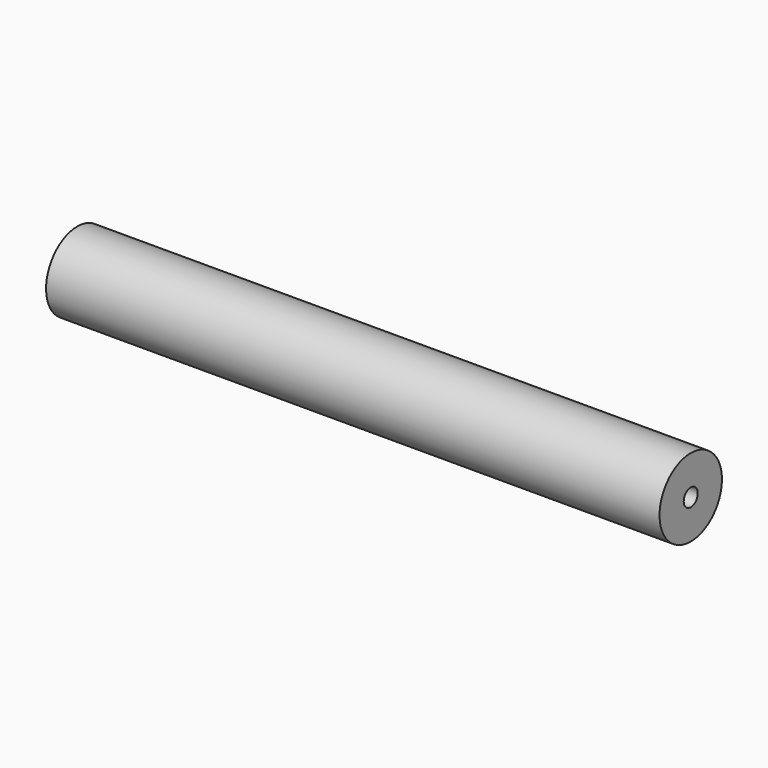
from build123d import *

# Parameters (mm, degrees)
F0_W = 210
F0_H = 13.348624


with BuildPart() as f1:
    # F0 (on Front) → F1 (revolve)
    with BuildSketch(Plane.XZ):
        with Locations((75, 6.674312)):
            Rectangle(F0_W, F0_H)
    revolve(axis=Axis((75, 0, 0), (1, 0, 0)))

    # F2 (on Front) → F3 (revolve, cut)
    with BuildSketch(Plane.XZ):
        Polygon((0, 1), (-30, 10), (-30, 0), (180, 0), (180, 3), align=None)
    revolve(axis=Axis((75, 0, 0), (-1, 0, 0)), mode=Mode.SUBTRACT)


solid = f1.part
